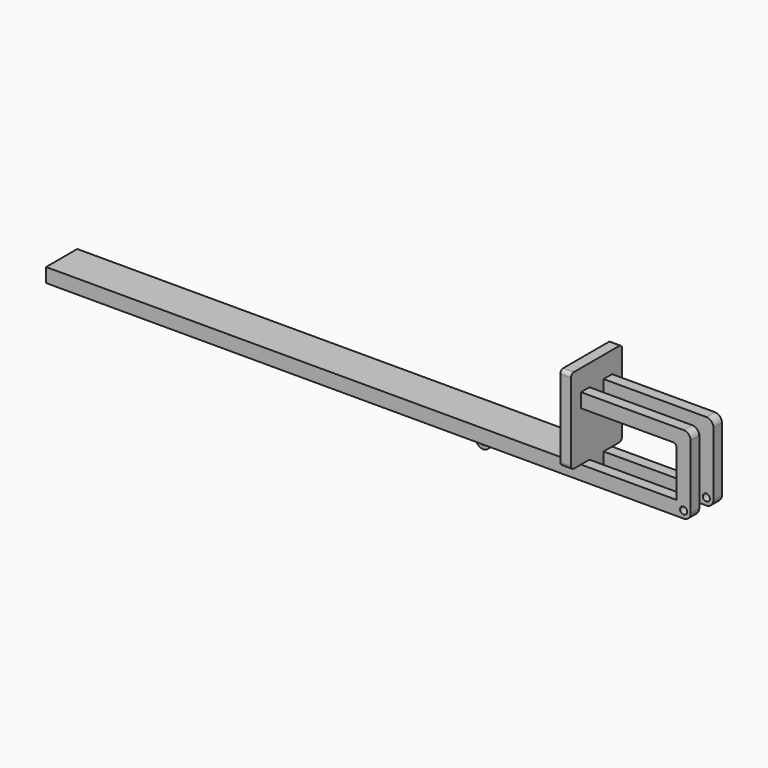
from build123d import *

# Parameters (mm, degrees)
F0_R           = 5
F1_DEPTH       = 27.5
F1_DEPTH_BACK  = 27.5
F4_R           = 5
F5_DEPTH       = 55
F6_W           = 175
F6_H           = 126.1557921569
F7_DEPTH       = 12.5
F7_DEPTH_BACK  = 12.5
F8_R           = 5
F9_DEPTH       = 6.25
F9_DEPTH_BACK  = 6.25
F10_W          = 15
F10_H          = 120
F11_DEPTH      = 45
F11_DEPTH_BACK = 45
F12_R          = 5
F13_R          = 5


with BuildPart() as f1:
    # F0 (on Front) → F1 (new body, two sides)
    with BuildSketch(Plane.XZ) as f1_sk:
        with BuildLine():
            Line((-900, -10), (0, -10))
            ThreePointArc((0, -10), (10, 0), (0, 10))
            Line((0, 10), (-900, 10))
            Line((-900, 10), (-900, -10))
        make_face()
        Circle(F0_R, mode=Mode.SUBTRACT)
    extrude(amount=-F1_DEPTH)
    extrude(f1_sk.sketch, amount=F1_DEPTH_BACK)

    # F4 (on offset) → F5 (join)
    with BuildSketch(Plane.XZ.offset(27.5)):
        with BuildLine():
            Line((-10, 80), (-10, 0))
            ThreePointArc((-10, 0), (0, -10), (10, 0))
            Line((10, 0), (10, 90))
            ThreePointArc((10, 90), (7.0710678119, 97.0710678119), (0, 100))
            Line((0, 100), (-145, 100))
            Line((-145, 100), (-145, 80))
            Line((-145, 80), (-10, 80))
        make_face()
        Circle(F4_R, mode=Mode.SUBTRACT)
    extrude(amount=-F5_DEPTH)

    # F6 (on offset) → F7 (cut, two sides)
    with BuildSketch(Plane.XZ) as f7_sk:
        with Locations((-57.5, 44.8381894321)):
            Rectangle(F6_W, F6_H)
    extrude(amount=-F7_DEPTH, mode=Mode.SUBTRACT)
    extrude(f7_sk.sketch, amount=F7_DEPTH_BACK, mode=Mode.SUBTRACT)

    # F8 (on offset) → F9 (join, two sides)
    with BuildSketch(Plane.XZ) as f9_sk:
        with BuildLine():
            Line((-310, -10), (-310, -20))
            ThreePointArc((-310, -20), (-300, -30), (-290, -20))
            Line((-290, -20), (-290, -10))
            Line((-290, -10), (-300, -10))
            Line((-300, -10), (-310, -10))
        make_face()
        with Locations((-300, -20)):
            Circle(F8_R, mode=Mode.SUBTRACT)
    extrude(amount=F9_DEPTH)
    extrude(f9_sk.sketch, amount=-F9_DEPTH_BACK)

    # F10 (on offset) → F11 (join, two sides)
    with BuildSketch(Plane.XZ) as f11_sk:
        with Locations((-152.5, 70)):
            Rectangle(F10_W, F10_H)
    extrude(amount=F11_DEPTH)
    extrude(f11_sk.sketch, amount=-F11_DEPTH_BACK)

    # F12
    f12_edges = [f1.edges().sort_by_distance(p)[0] for p in [
        (-152.5, -45, 130),
        (-152.5, 45, 130),
        (-152.5, -45, 10),
        (-152.5, 45, 10),
    ]]
    fillet(f12_edges, radius=F12_R)

    # F13
    f13_edges = [f1.edges().sort_by_distance(p)[0] for p in [
        (-10, -20, 80),
        (-10, 20, 80),
    ]]
    fillet(f13_edges, radius=F13_R)


solid = f1.part
